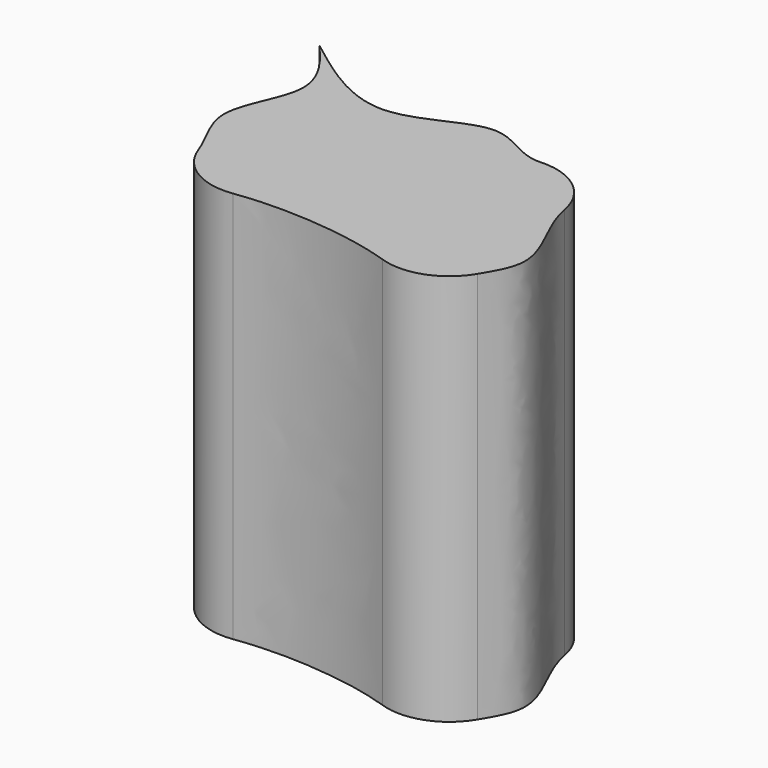
from build123d import *

# Parameters (mm, degrees)
F0_W     = 101.5910282731
F0_H     = 77.6539891958
F1_DEPTH = 101.6
F3_DEPTH = 101.6
F5_DEPTH = 101.6
F7_DEPTH = 101.6
F9_DEPTH = 101.6
F10_R    = 16.0867356871


with BuildPart() as f1:
    # F0 (on Top) → F1 (new body)
    with BuildSketch(Plane.XY):
        Rectangle(F0_W, F0_H)
    extrude(amount=F1_DEPTH)

    # F2 (on face) → F3 (cut)
    with BuildSketch(Plane.XY.offset(101.6)):
        with BuildLine():
            Line((50.7955141366, 38.8269945979), (38.5442748666, 38.8269945979))
            add(Edge.make_bspline(
                [(38.5442748666, 38.8269945979), (34.7853659664, 30.2941058652), (27.4030797948, 13.5359911654), (46.6627614991, -9.3957882173), (29.103787605, -25.5658223286), (36.0228889451, -34.5663805962), (39.2981991172, -38.8269945979)],
                knots=[0, 0, 0, 0, 0.283682279, 0.5571360789, 0.7903605347, 1, 1, 1, 1], degree=3))
            Line((39.2981991172, -38.8269945979), (50.7955141366, -38.8269945979))
            Line((50.7955141366, -38.8269945979), (50.7955141366, 38.8269945979))
        make_face()
    extrude(amount=-F3_DEPTH, mode=Mode.SUBTRACT)

    # F4 (on face) → F5 (cut)
    with BuildSketch(Plane.XY.offset(101.6)):
        with BuildLine():
            add(Edge.make_bspline(
                [(38.5442748666, 38.8269945979), (29.9431561562, 32.6029015251), (14.8219290997, 21.6606127667), (0.0386577819, 37.5410923501), (-23.565421963, 18.2450760846), (-41.2868280887, 31.6398356211), (-50.7955141366, 38.8269945979)],
                knots=[0, 0, 0, 0, 0.2645834083, 0.4651517933, 0.7130191789, 1, 1, 1, 1], degree=3))
            Line((38.5442748666, 38.8269945979), (-50.7955141366, 38.8269945979))
        make_face()
    extrude(amount=-F5_DEPTH, mode=Mode.SUBTRACT)

    # F6 (on face) → F7 (cut)
    with BuildSketch(Plane.XY.offset(101.6)):
        with BuildLine():
            add(Edge.make_bspline(
                [(-50.7955141366, 38.8269945979), (-46.2906352529, 33.4547816389), (-37.173187337, 22.5819317548), (-52.7501205698, 2.7238951898), (-35.0519329818, -15.7962550208), (-45.3352097584, -30.839304446), (-50.7955141366, -38.8269945979)],
                knots=[0, 0, 0, 0, 0.2375830787, 0.4808456346, 0.7243348676, 1, 1, 1, 1], degree=3))
            Line((-50.7955141366, 38.8269945979), (-50.7955141366, -38.8269945979))
        make_face()
    extrude(amount=-F7_DEPTH, mode=Mode.SUBTRACT)

    # F8 (on face) → F9 (cut)
    with BuildSketch(Plane.XY.offset(101.6)):
        with BuildLine():
            Line((-50.7955141366, -38.8269945979), (39.2981991172, -38.8269945979))
            add(Edge.make_bspline(
                [(39.2981991172, -38.8269945979), (32.7183320176, -33.7923939712), (17.3722477055, -22.0503018399), (-35.0525291727, -19.4554191131), (-46.2426012078, -33.2246836844), (-50.7955141366, -38.8269945979)],
                knots=[0, 0, 0, 0, 0.3080537995, 0.7184673349, 1, 1, 1, 1], degree=3))
        make_face()
    extrude(amount=-F9_DEPTH, mode=Mode.SUBTRACT)

    # F10
    f10_edges = [f1.edges().sort_by_distance(p)[0] for p in [
        (-50.795514, -38.826995, 50.8),
        (39.298199, -38.826995, 50.8),
        (38.544275, 38.826995, 50.8),
    ]]
    fillet(f10_edges, radius=F10_R)


solid = f1.part
